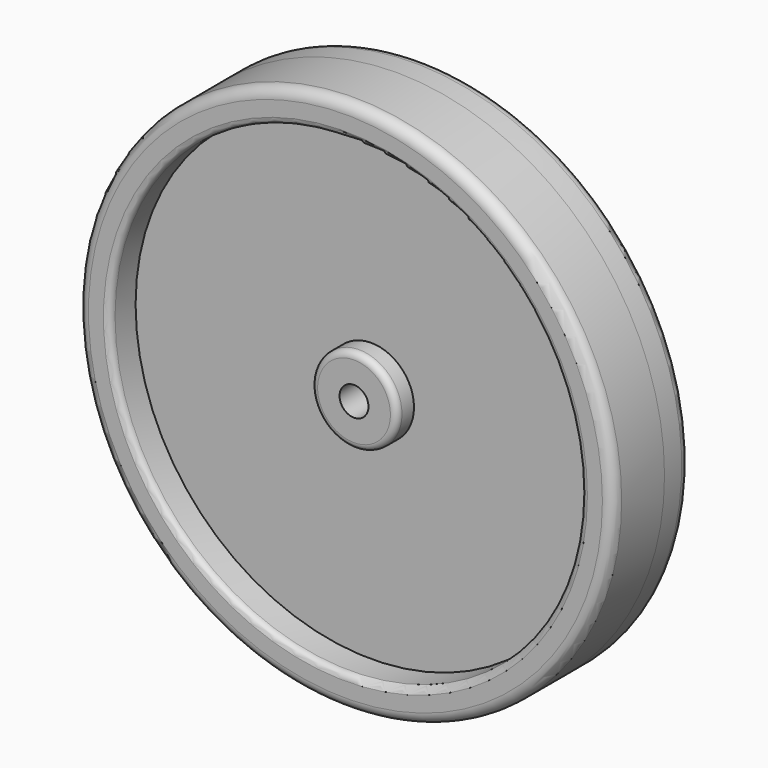
from build123d import *

# Parameters (mm, degrees)
F0_R     = 31.75
F0_R_2   = 25.4
F0_R_3   = 1.7145
F1_DEPTH = 1.905
F2_R     = 31.75
F2_R_2   = 27.94
F3_DEPTH = 3.81
F4_R     = 31.75
F4_R_2   = 27.94
F5_DEPTH = 3.81
F6_R     = 5.08
F6_R_2   = 1.7145
F7_DEPTH = 2.54
F8_R     = 5.08
F8_R_2   = 1.7145
F9_DEPTH = 2.54
F10_R    = 0.762
F11_R    = 1.27


with BuildPart() as f1:
    # F0 (on Front) → F1 (new body, symmetric)
    with BuildSketch(Plane.XZ):
        Circle(F0_R)
        Circle(F0_R_2, mode=Mode.SUBTRACT)
        Circle(F0_R_2)
        Circle(F0_R_3, mode=Mode.SUBTRACT)
    extrude(amount=F1_DEPTH, both=True)

    # F2 (on face) → F3 (join)
    with BuildSketch(Plane.XZ.offset(1.905)):
        Circle(F2_R)
        Circle(F2_R_2, mode=Mode.SUBTRACT)
    extrude(amount=F3_DEPTH)

    # F4 (on face) → F5 (join)
    with BuildSketch(Plane(origin=(0, 1.905, 0), x_dir=(-1, 0, 0), z_dir=(0, 1, 0))):
        Circle(F4_R)
        Circle(F4_R_2, mode=Mode.SUBTRACT)
    extrude(amount=F5_DEPTH)

    # F6 (on face) → F7 (join)
    with BuildSketch(Plane.XZ.offset(1.905)):
        Circle(F6_R)
        Circle(F6_R_2, mode=Mode.SUBTRACT)
    extrude(amount=F7_DEPTH)

    # F8 (on face) → F9 (join)
    with BuildSketch(Plane(origin=(0, 1.905, 0), x_dir=(-1, 0, 0), z_dir=(0, 1, 0))):
        Circle(F8_R)
        Circle(F8_R_2, mode=Mode.SUBTRACT)
    extrude(amount=F9_DEPTH)

    # F10
    f10_edges = [f1.edges().sort_by_distance(p)[0] for p in [
        (27.94, 5.715, 0),
        (-27.94, -5.715, 0),
        (5.08, 4.445, 0),
        (-5.08, -4.445, 0),
    ]]
    fillet(f10_edges, radius=F10_R)

    # F11
    f11_edges = [f1.edges().sort_by_distance(p)[0] for p in [
        (-31.75, -5.715, 0),
        (31.75, 5.715, 0),
    ]]
    fillet(f11_edges, radius=F11_R)


solid = f1.part
